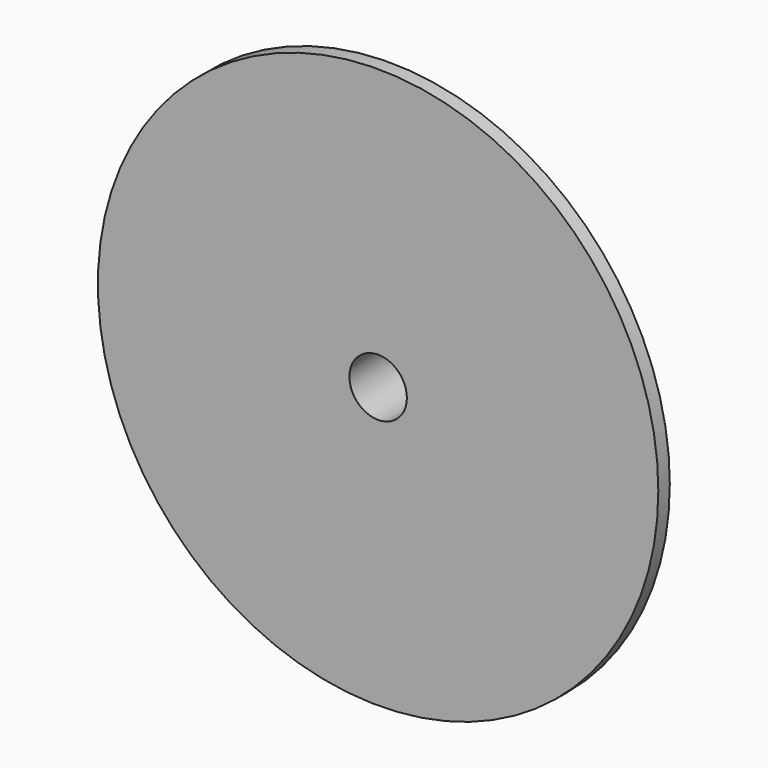
from build123d import *

# Parameters (mm, degrees)
F0_R     = 123.825
F1_DEPTH = 3.175
F2_R     = 25.4
F3_DEPTH = 50.8
F4_R     = 12.7
F5_DEPTH = 63.5


with BuildPart() as f1:
    # F0 (on Front) → F1 (new body, symmetric)
    with BuildSketch(Plane.XZ):
        Circle(F0_R)
    extrude(amount=F1_DEPTH, both=True)

    # F2 (on face) → F3 (join)
    with BuildSketch(Plane.XZ.offset(3.175)):
        Circle(F2_R)
    extrude(amount=-F3_DEPTH)

    # F4 (on face) → F5 (cut, symmetric)
    with BuildSketch(Plane.XZ.offset(3.175)):
        Circle(F4_R)
    extrude(amount=F5_DEPTH, both=True, mode=Mode.SUBTRACT)


solid = f1.part
